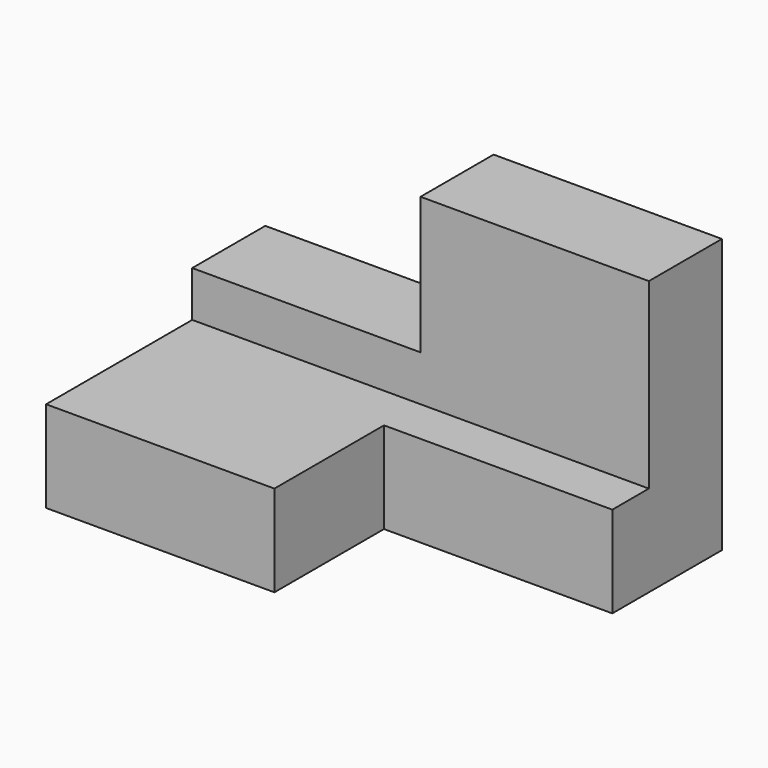
from build123d import *

# Parameters (mm, degrees)
F1_DEPTH = 50
F2_W     = 25
F2_H     = 15
F3_DEPTH = 10.001
F4_W     = 25
F4_H     = 15
F5_DEPTH = 10.001


with BuildPart() as f1:
    # F0 (on Right) → F1 (new body)
    with BuildSketch(Plane.YZ):
        Polygon((0, 10), (0, 0), (30, 0), (30, 30), (20, 30), (20, 10), align=None)
    extrude(amount=F1_DEPTH)

    # F2 (on face) → F3 (cut, through all)
    with BuildSketch(Plane.XZ.offset(-20)):
        with Locations((12.5, 22.5)):
            Rectangle(F2_W, F2_H)
    extrude(amount=-F3_DEPTH, mode=Mode.SUBTRACT)

    # F4 (on face) → F5 (cut, through all)
    with BuildSketch(Plane.XY.offset(10)):
        with Locations((37.5, 7.5)):
            Rectangle(F4_W, F4_H)
    extrude(amount=-F5_DEPTH, mode=Mode.SUBTRACT)


solid = f1.part
